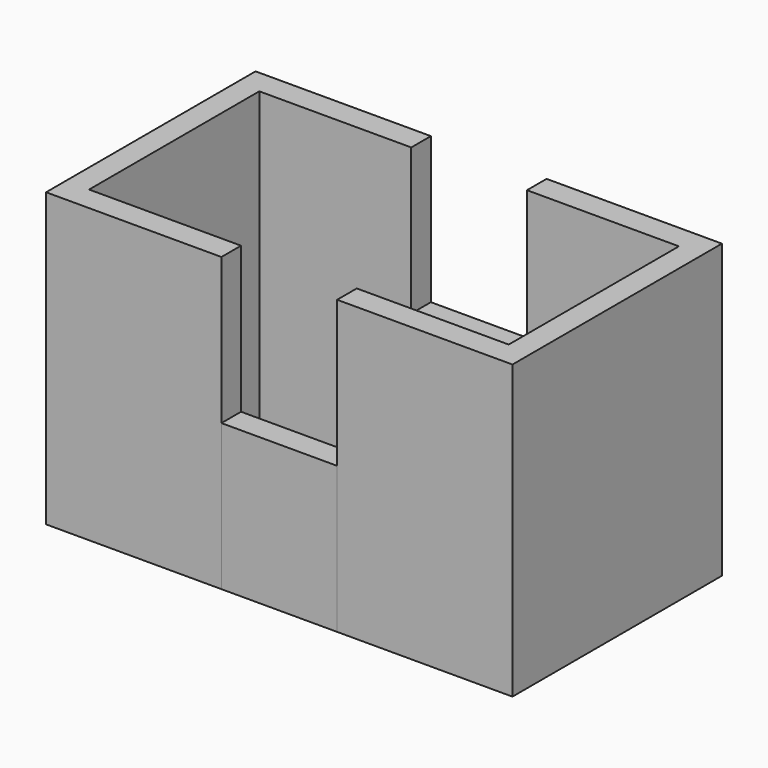
from build123d import *

# Parameters (mm, degrees)
F1_DEPTH = 50.8
F0_W     = 20.104036
F0_H     = 4.264494
F2_DEPTH = 25.4


with BuildPart() as f1:
    # F0 (on Top) → F1 (new body)
    with BuildSketch(Plane.XY):
        Polygon((-36.451258, 29.749913), (-40.512677, 29.749913), (-40.512677, -15.738009), (-36.451258, -15.738009), (-10.052018, -15.738009), (-10.052018, -11.473515), (-36.451258, -11.473515), (-36.451258, 25.485419), (-10.052018, 25.485419), (-10.052018, 29.749913), align=None)
        Polygon((36.451258, 29.749913), (10.052018, 29.749913), (10.052018, 25.485419), (36.451258, 25.485419), (36.451258, -11.473515), (10.052018, -11.473515), (10.052018, -15.738009), (36.451258, -15.738009), (40.512677, -15.738009), (40.512677, 29.749913), align=None)
    extrude(amount=F1_DEPTH)


with BuildPart() as f2:
    # F0 (on Top) → F2 (new body)
    with BuildSketch(Plane.XY):
        with Locations((0, 27.617666)):
            Rectangle(F0_W, F0_H)
        with Locations((0, -13.605762)):
            Rectangle(F0_W, F0_H)
    extrude(amount=F2_DEPTH)


solid = Compound([f1.part, f2.part])
